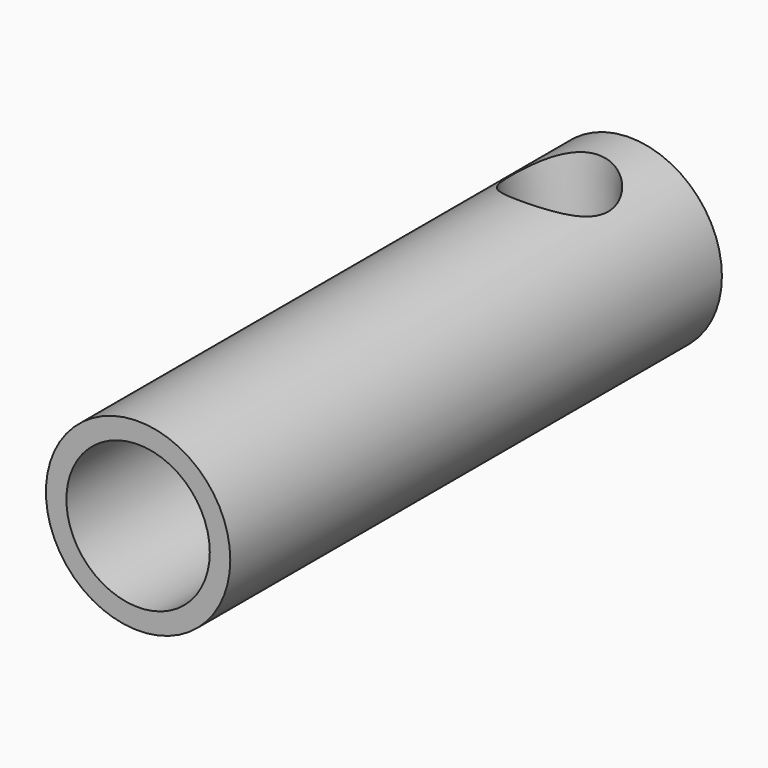
from build123d import *

# Parameters (mm, degrees)
F0_R     = 3.5
F1_DEPTH = 20
F2_T     = 1
F3_R     = 3.3401010272
F4_DEPTH = 10
F5_R     = 4.5
F6_DEPTH = 10
F7_R     = 2.1745755041
F8_DEPTH = 15
F8_TAPER = -3


with BuildPart() as f1:
    # F0 (on Front) → F1 (new body)
    with BuildSketch(Plane.XZ):
        Circle(F0_R)
    extrude(amount=F1_DEPTH)

    # F2
    f2_openings = [f1.faces().sort_by_distance(p)[0] for p in [
        (0, -20, 0),
    ]]
    offset(amount=F2_T, openings=f2_openings, kind=Kind.INTERSECTION)

    # F3 (on Front) → F4 (join)
    with BuildSketch(Plane.XZ):
        Circle(F3_R)
    extrude(amount=F4_DEPTH)

    # F5 (on Front) → F6 (join)
    with BuildSketch(Plane.XZ):
        Circle(F5_R)
    extrude(amount=-F6_DEPTH)

    # F7 (on Top) → F8 (cut, symmetric)
    with BuildSketch(Plane.XY):
        with Locations((0, 5.7148435153)):
            Circle(F7_R)
    extrude(amount=F8_DEPTH, both=True, taper=F8_TAPER, mode=Mode.SUBTRACT)


solid = f1.part
